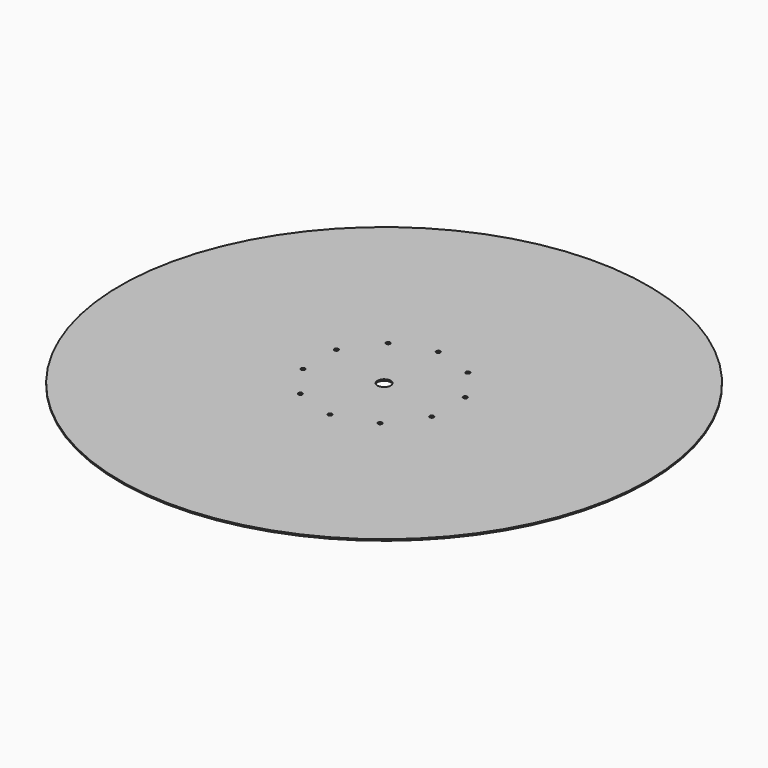
from build123d import *

# Parameters (mm, degrees)
F0_R     = 915
F0_R_2   = 7
F0_R_3   = 23
F1_DEPTH = 5


with BuildPart() as f1:
    # F0 (on Top) → F1 (new body)
    with BuildSketch(Plane.XY):
        Circle(F0_R)
        with Locations((-138.129534, -190.118994)):
            Circle(F0_R_2, mode=Mode.SUBTRACT)
        with Locations((-223.498281, -72.618994)):
            Circle(F0_R_2, mode=Mode.SUBTRACT)
        with Locations((0, -235)):
            Circle(F0_R_2, mode=Mode.SUBTRACT)
        with Locations((138.129534, -190.118994)):
            Circle(F0_R_2, mode=Mode.SUBTRACT)
        with Locations((223.498281, -72.618994)):
            Circle(F0_R_2, mode=Mode.SUBTRACT)
        with Locations((-223.498281, 72.618994)):
            Circle(F0_R_2, mode=Mode.SUBTRACT)
        with Locations((-138.129534, 190.118994)):
            Circle(F0_R_2, mode=Mode.SUBTRACT)
        Circle(F0_R_3, mode=Mode.SUBTRACT)
        with Locations((223.498281, 72.618994)):
            Circle(F0_R_2, mode=Mode.SUBTRACT)
        with Locations((138.129534, 190.118994)):
            Circle(F0_R_2, mode=Mode.SUBTRACT)
        with Locations((0, 235)):
            Circle(F0_R_2, mode=Mode.SUBTRACT)
    extrude(amount=F1_DEPTH)


solid = f1.part
